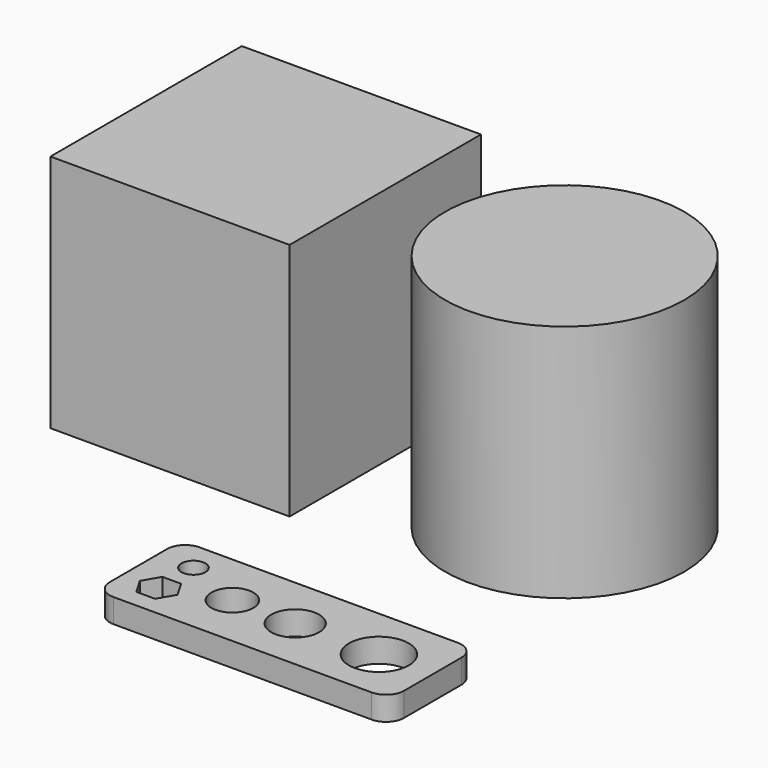
from build123d import *

# Parameters (mm, degrees)
F0_W     = 40
F0_H     = 40
F1_DEPTH = 40
F2_R     = 20
F3_DEPTH = 40
F4_R     = 3.5
F4_R_2   = 4
F4_R_3   = 2
F4_R_4   = 5
F5_DEPTH = 4


with BuildPart() as f1:
    # F0 (on Top) → F1 (new body)
    with BuildSketch(Plane.XY):
        Rectangle(F0_W, F0_H)
    extrude(amount=F1_DEPTH)


with BuildPart() as f3:
    # F2 (on Top) → F3 (new body, through all)
    with BuildSketch(Plane.XY):
        with Locations((50, 0)):
            Circle(F2_R)
    extrude(amount=F3_DEPTH)


with BuildPart() as f5:
    # F4 (on Top) → F5 (new body)
    with BuildSketch(Plane.XY):
        with BuildLine():
            Line((64.242783, -40.139524), (21.034539, -40.139524))
            ThreePointArc((21.034539, -40.139524), (18.913218, -41.018203), (18.034539, -43.139524))
            Line((18.034539, -43.139524), (18.034539, -55.139524))
            ThreePointArc((18.034539, -55.139524), (18.913218, -57.260844), (21.034539, -58.139524))
            Line((21.034539, -58.139524), (64.242783, -58.139524))
            ThreePointArc((64.242783, -58.139524), (66.364103, -57.260844), (67.242783, -55.139524))
            Line((67.242783, -55.139524), (67.242783, -43.139524))
            ThreePointArc((67.242783, -43.139524), (66.364103, -41.018203), (64.242783, -40.139524))
        make_face()
        Polygon((25.607818, -49.689524), (27.181098, -52.414524), (25.607818, -55.139524), (22.461259, -55.139524), (20.88798, -52.414524), (22.461259, -49.689524), align=None, mode=Mode.SUBTRACT)
        with Locations((33.742783, -49.139524)):
            Circle(F4_R, mode=Mode.SUBTRACT)
        with Locations((44.242783, -49.139524)):
            Circle(F4_R_2, mode=Mode.SUBTRACT)
        with Locations((24.034539, -45.139524)):
            Circle(F4_R_3, mode=Mode.SUBTRACT)
        with Locations((58.242783, -49.139524)):
            Circle(F4_R_4, mode=Mode.SUBTRACT)
    extrude(amount=F5_DEPTH)


solid = Compound([f1.part, f3.part, f5.part])
